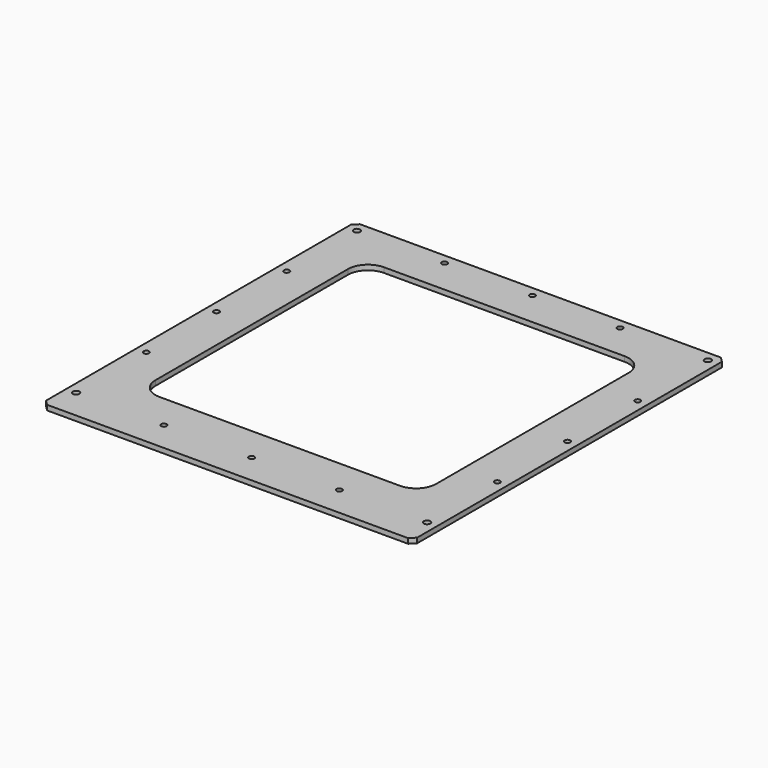
from build123d import *

# Parameters (mm, degrees)
F0_W     = 370
F0_H     = 390
F1_DEPTH = 5
F2_D     = 5.5
F2_DEPTH = 17
F3_D     = 6.5
F3_DEPTH = 17
F4_SIZE  = 5


with BuildPart() as f1:
    # F0 (on Top) → F1 (new body)
    with BuildSketch(Plane.XY):
        with Locations((0, -10)):
            Rectangle(F0_W, F0_H)
        with BuildLine():
            ThreePointArc((-140, 120), (-134.142136, 134.142136), (-120, 140))
            Line((-120, 140), (120, 140))
            ThreePointArc((120, 140), (134.142136, 134.142136), (140, 120))
            Line((140, 120), (140, -120))
            ThreePointArc((140, -120), (134.142136, -134.142136), (120, -140))
            Line((120, -140), (-120, -140))
            ThreePointArc((-120, -140), (-134.142136, -134.142136), (-140, -120))
            Line((-140, -120), (-140, 120))
        make_face(mode=Mode.SUBTRACT)
    extrude(amount=-F1_DEPTH)

    # F2
    with Locations(Plane.XY):
        with Locations((-175, 87.5), (-175, 0), (-175, -87.5), (-87.5, -175), (0, -175), (87.5, -175), (175, -87.5), (175, 87.5), (87.5, 175), (0, 175), (-87.5, 175), (175, 0)):
            Hole(F2_D / 2, depth=F2_DEPTH)

    # F3
    with Locations(Plane.XY):
        with Locations((-175, -175), (-175, 175), (175, 175), (175, -175)):
            Hole(F3_D / 2, depth=F3_DEPTH)

    # F4
    f4_edges = [f1.edges().sort_by_distance(p)[0] for p in [
        (-185, -205, -2.5),
        (185, -205, -2.5),
        (185, 185, -2.5),
        (-185, 185, -2.5),
    ]]
    chamfer(f4_edges, length=F4_SIZE)


solid = f1.part
